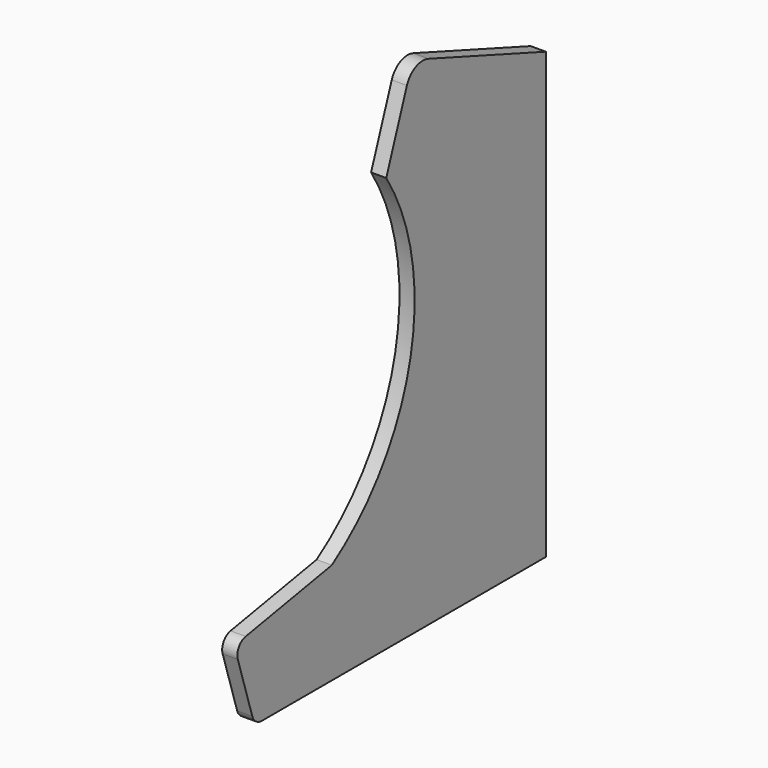
from build123d import *

# Parameters (mm, degrees)
F1_DEPTH = 1.8
F2_R     = 1.5
F3_R     = 2.5
F4_SCALE = 10


with BuildPart() as f1:
    # F0 (on Right) → F1 (new body)
    with BuildSketch(Plane.YZ):
        with BuildLine():
            Line((20.157673577, -25.612176564), (20.157673577, 27.1963820784))
            Line((20.157673577, 27.1963820784), (0.3993508334, 34.387823436))
            Line((0.3993508334, 34.387823436), (-3.5206237808, 23.6177816987))
            ThreePointArc((-3.5206237808, 23.6177816987), (0.0725196424, 3.3694774982), (-11.6, -13.5614642316))
            Line((-11.6, -13.5614642316), (-26.0658084777, -16.112176564))
            Line((-26.0658084777, -16.112176564), (-23.0658084777, -25.612176564))
            Line((-23.0658084777, -25.612176564), (20.157673577, -25.612176564))
        make_face()
    extrude(amount=-F1_DEPTH)

    # F2
    f2_edges = [f1.edges().sort_by_distance(p)[0] for p in [
        (-0.9, -26.065808, -16.112177),
        (-0.9, -23.065808, -25.612177),
    ]]
    fillet(f2_edges, radius=F2_R)

    # F3
    f3_edges = [f1.edges().sort_by_distance(p)[0] for p in [
        (-0.9, 0.399351, 34.387823),
    ]]
    fillet(f3_edges, radius=F3_R)


with BuildPart() as f1_1:
    # F4: moved
    add(f1.part.scale(F4_SCALE).moved(Location((0, -181.4190621927, 230.5095890756))))


solid = f1_1.part
